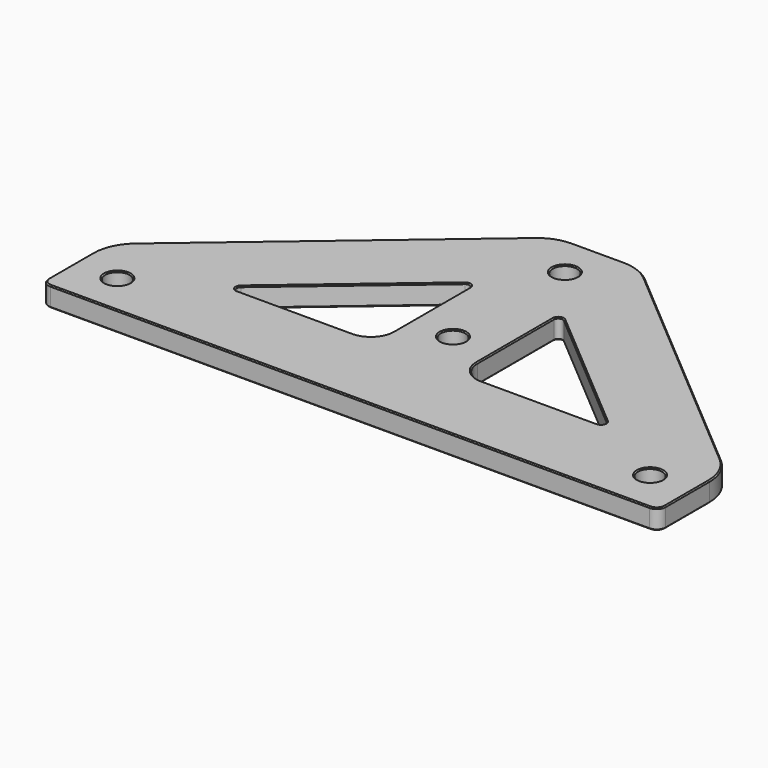
from build123d import *

# Parameters (mm, degrees)
F1_DEPTH = 4.5
F2_R     = 2.75
F3_DEPTH = 4.501
F4_R     = 5
F5_R     = 1
F6_R     = 10
F7_R     = 2
F8_SIZE  = 0.25


with BuildPart() as f1:
    # F0 (on Top) → F1 (new body)
    with BuildSketch(Plane.XY):
        Polygon((-9.5, 70), (-69.5, 19), (-69.5, 0), (69.5, 0), (69.5, 19), (9.5, 70), align=None)
        Polygon((-43.2511905032, 19), (-9.5, 47.6885119277), (-9.5, 19), align=None, mode=Mode.SUBTRACT)
        Polygon((9.5, 19), (9.5, 47.6885119277), (43.2511905032, 19), align=None, mode=Mode.SUBTRACT)
    extrude(amount=F1_DEPTH)

    # F2 (on face) → F3 (cut, through all)
    with BuildSketch(Plane.XY.offset(4.5)):
        with Locations((0, 60.5)):
            Circle(F2_R)
        with Locations((0, 29)):
            Circle(F2_R)
        with Locations((60, 9.5)):
            Circle(F2_R)
        with Locations((-60, 9.5)):
            Circle(F2_R)
    extrude(amount=-F3_DEPTH, mode=Mode.SUBTRACT)

    # F4
    f4_edges = [f1.edges().sort_by_distance(p)[0] for p in [
        (-9.5, 19, 2.25),
        (9.5, 19, 2.25),
    ]]
    fillet(f4_edges, radius=F4_R)

    # F5
    f5_edges = [f1.edges().sort_by_distance(p)[0] for p in [
        (43.251191, 19, 2.25),
        (9.5, 47.688512, 2.25),
        (-9.5, 47.688512, 2.25),
        (-43.251191, 19, 2.25),
    ]]
    fillet(f5_edges, radius=F5_R)

    # F6
    f6_edges = [f1.edges().sort_by_distance(p)[0] for p in [
        (-9.5, 70, 2.25),
        (9.5, 70, 2.25),
        (-69.5, 19, 2.25),
        (69.5, 19, 2.25),
    ]]
    fillet(f6_edges, radius=F6_R)

    # F7
    f7_edges = [f1.edges().sort_by_distance(p)[0] for p in [
        (-69.5, 0, 2.25),
        (69.5, 0, 2.25),
    ]]
    fillet(f7_edges, radius=F7_R)

    # F8
    f8_edges = [f1.edges().sort_by_distance(p)[0] for p in [
        (-2.75, 60.5, 4.5),
        (-2.75, 29, 4.5),
        (57.25, 9.5, 4.5),
        (-62.75, 9.5, 4.5),
        (-2.75, 60.5, 0),
        (-62.75, 9.5, 0),
        (-2.75, 29, 0),
        (57.25, 9.5, 0),
        (0, 0, 4.5),
        (0, 0, 0),
        (-27.515336, 19, 0),
        (-69.5, 8.187798, 4.5),
        (-68.914214, 0.585786, 4.5),
        (-68.576476, 18.572925, 4.5),
        (-39.138599, 44.807191, 4.5),
        (68.914214, 0.585786, 4.5),
        (-9.274307, 69.385998, 4.5),
        (69.5, 8.187798, 4.5),
        (0, 70, 4.5),
        (68.576476, 18.572925, 4.5),
        (9.274307, 69.385998, 4.5),
        (39.138599, 44.807191, 4.5),
        (-27.515336, 19, 4.5),
        (-41.469272, 19.654992, 4.5),
        (-10.964466, 20.464466, 4.5),
        (-26.162985, 33.524975, 4.5),
        (-9.5, 34.763036, 4.5),
        (-10.080267, 46.433719, 4.5),
        (9.5, 34.763036, 4.5),
        (10.080267, 46.433719, 4.5),
        (10.964466, 20.464466, 4.5),
        (26.162985, 33.524975, 4.5),
        (27.515336, 19, 4.5),
        (41.469272, 19.654992, 4.5),
        (-69.5, 8.187798, 0),
        (-68.914214, 0.585786, 0),
        (-68.576476, 18.572925, 0),
        (-39.138599, 44.807191, 0),
        (68.914214, 0.585786, 0),
        (-9.274307, 69.385998, 0),
        (69.5, 8.187798, 0),
        (0, 70, 0),
        (68.576476, 18.572925, 0),
        (9.274307, 69.385998, 0),
        (39.138599, 44.807191, 0),
        (-41.469272, 19.654992, 0),
        (-10.964466, 20.464466, 0),
        (-26.162985, 33.524975, 0),
        (-9.5, 34.763036, 0),
        (-10.080267, 46.433719, 0),
        (9.5, 34.763036, 0),
        (10.080267, 46.433719, 0),
        (10.964466, 20.464466, 0),
        (26.162985, 33.524975, 0),
        (27.515336, 19, 0),
        (41.469272, 19.654992, 0),
    ]]
    chamfer(f8_edges, length=F8_SIZE)


solid = f1.part
